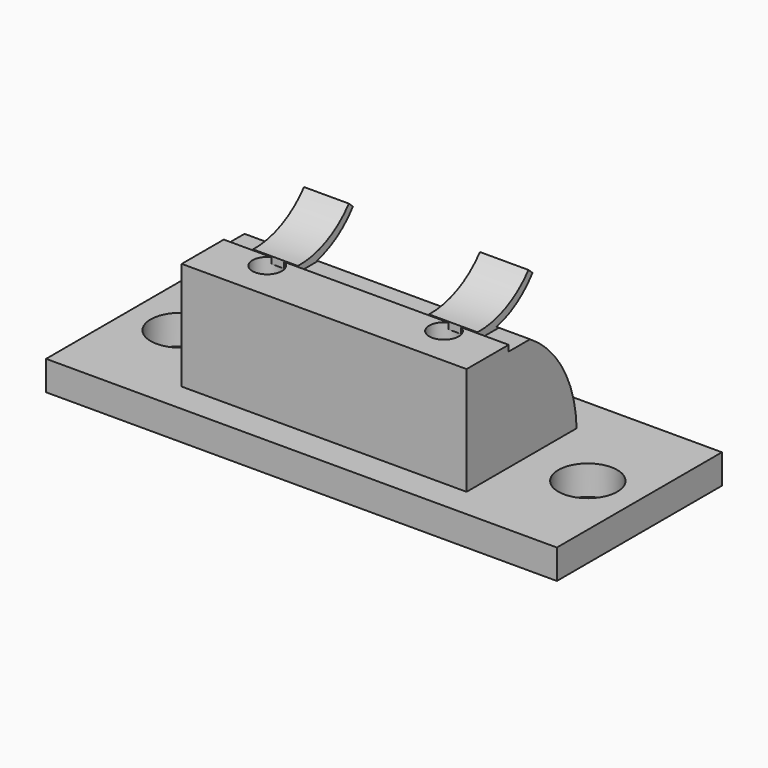
from build123d import *

# Parameters (mm, degrees)
SKETCH_W        = 52
SKETCH_H        = 21
SKETCH_R        = 3
PAD_DEPTH       = 3
SKETCH001_W     = 29
SKETCH001_H     = 14
SKETCH001_R     = 1.5
PAD001_DEPTH    = 11
POCKET_DEPTH    = 100
PAD002_DEPTH    = 29
SKETCH004_W     = 3.506214
SKETCH004_H     = 4.561438
SKETCH004_W_2   = 13.343595
SKETCH004_H_2   = 5.385539
SKETCH004_W_3   = 3.315279
SKETCH004_H_3   = 4.172676
POCKET001_DEPTH = 7


with BuildPart() as part:
    # Sketch → Pad (new body)
    with BuildSketch(Plane.XY):
        with Locations((26, 10.5)):
            Rectangle(SKETCH_W, SKETCH_H)
        with Locations((5.25, 10.5)):
            Circle(SKETCH_R, mode=Mode.SUBTRACT)
        with Locations((46.75, 10.498532)):
            Circle(SKETCH_R, mode=Mode.SUBTRACT)
    extrude(amount=PAD_DEPTH)

    # Sketch001 → Pad001 (new body)
    with BuildSketch(Plane.XY.offset(3)):
        with Locations((25.906526, 10)):
            Rectangle(SKETCH001_W, SKETCH001_H)
        with Locations((16.906526, 7)):
            Circle(SKETCH001_R, mode=Mode.SUBTRACT)
        with Locations((34.906526, 7)):
            Circle(SKETCH001_R, mode=Mode.SUBTRACT)
    extrude(amount=PAD001_DEPTH)

    # Sketch002 → Pocket (cut)
    with BuildSketch(Plane.YZ.offset(40.406526)):
        with BuildLine():
            ThreePointArc((17, 3.044285), (15.003799, 9.482974), (10, 14))
            Line((10, 14), (17, 14))
            Line((17, 14), (17, 3.044285))
        make_face()
    extrude(amount=-POCKET_DEPTH, mode=Mode.SUBTRACT)

    # Sketch003 → Pad002 (new body)
    with BuildSketch(Plane.YZ.offset(40.406526)):
        with BuildLine():
            Line((8.354331, 14.091598), (8.354331, 13.391598))
            ThreePointArc((8.354331, 13.391598), (12.257184, 14.090805), (15.354331, 16.566454))
            Line((14.840477, 17.041801), (15.354331, 16.566454))
            ThreePointArc((8.354331, 14.091598), (11.93941, 14.814785), (14.840477, 17.041801))
        make_face()
    extrude(amount=-PAD002_DEPTH)

    # Sketch004 → Pocket001 (cut)
    with BuildSketch(Plane.XZ.offset(-8.354331)):
        with Locations((38.987986, 15.672686)):
            Rectangle(SKETCH004_W, SKETCH004_H)
        with Locations((25.624218, 16.18705)):
            Rectangle(SKETCH004_W_2, SKETCH004_H_2)
        with Locations((12.72779, 15.529459)):
            Rectangle(SKETCH004_W_3, SKETCH004_H_3)
    extrude(amount=-POCKET001_DEPTH, mode=Mode.SUBTRACT)


solid = part.part
